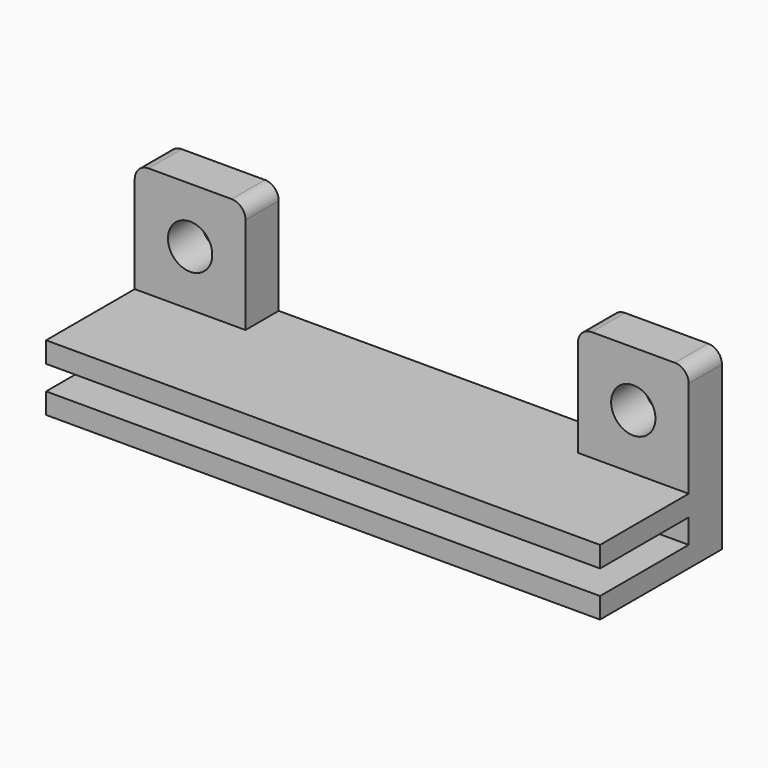
from build123d import *

# Parameters (mm, degrees)
SKETCH_W        = 40
SKETCH_H        = 11
PAD_DEPTH       = 4.75
SKETCH001_W     = 40
SKETCH001_H     = 1.75
POCKET_DEPTH    = 8
SKETCH002_W     = 8
SKETCH002_H     = 3
PAD001_DEPTH    = 8
SKETCH004_R     = 1.6
POCKET001_DEPTH = 11.001
FILLET_R        = 1


with BuildPart() as part:
    # Sketch → Pad (new body)
    with BuildSketch(Plane.XY):
        with Locations((0, -2.5)):
            Rectangle(SKETCH_W, SKETCH_H)
    extrude(amount=PAD_DEPTH)

    # Sketch001 (on Face3 of Pad) → Pocket (cut)
    with BuildSketch(Plane.XZ.offset(8)):
        with Locations((0, 2.375)):
            Rectangle(SKETCH001_W, SKETCH001_H)
    extrude(amount=-POCKET_DEPTH, mode=Mode.SUBTRACT)

    # Sketch002 (on Face5 of Pocket) → Pad001 (join)
    with BuildSketch(Plane.XY.offset(4.75)):
        with Locations((-16, 1.5)):
            Rectangle(SKETCH002_W, SKETCH002_H)
        with Locations((16, 1.5)):
            Rectangle(SKETCH002_W, SKETCH002_H)
    extrude(amount=PAD001_DEPTH)

    # Sketch004 (on Face7 of Pad001) → Pocket001 (cut, through all)
    with BuildSketch(Plane(origin=(0, 3, 0), x_dir=(-1, 0, 0), z_dir=(0, 1, 0))):
        with Locations((-16, 8.75)):
            Circle(SKETCH004_R)
        with Locations((16, 8.75)):
            Circle(SKETCH004_R)
    extrude(amount=-POCKET001_DEPTH, mode=Mode.SUBTRACT)

    # Fillet
    fillet_edges = [part.edges().sort_by_distance(p)[0] for p in [
        (20, 1.5, 12.75),
        (12, 1.5, 12.75),
        (-12, 1.5, 12.75),
        (-20, 1.5, 12.75),
    ]]
    fillet(fillet_edges, radius=FILLET_R)


solid = part.part
